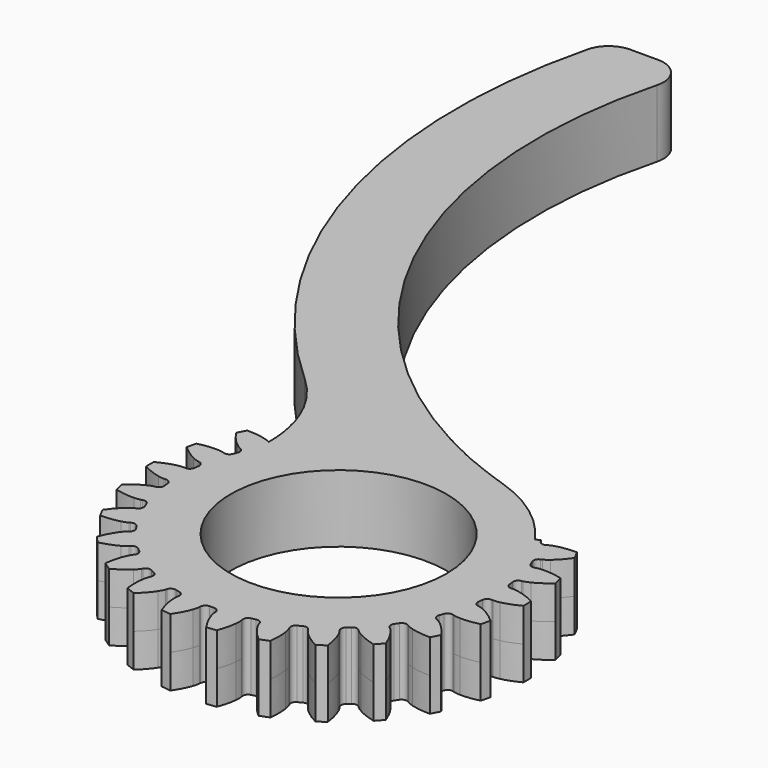
from build123d import *

# Parameters (mm, degrees)
SKETCH009_R     = 8
PAD008_DEPTH    = 2.5
FILLET_R        = 10
FILLET001_R     = 2
CHAMFER_SIZE    = 0.8
PAD009_DEPTH    = 2.5
SKETCH010_R     = 8
POCKET001_DEPTH = 5.001
POCKET002_DEPTH = 5


with BuildPart() as part:
    # Sketch009 → Pad008 (new body, symmetric)
    with BuildSketch(Plane.XY):
        with BuildLine():
            ThreePointArc((-35, 12), (-33.110427, -16.51362), (-11.470762, -35.177004))
            ThreePointArc((-21.943947, -36.979226), (-13.06944, -57.218988), (-11.470762, -35.177004))
            ThreePointArc((-41.291646, 12), (-39.992827, -15.797905), (-21.943947, -36.979226))
            Line((-41.291646, 12), (-35, 12))
        make_face()
        with Locations((-15, -46)):
            Circle(SKETCH009_R, mode=Mode.SUBTRACT)
    extrude(amount=PAD008_DEPTH, both=True)

    # Fillet
    fillet_edges = [part.edges().sort_by_distance(p)[0] for p in [
        (-21.943947, -36.979226, 0),
    ]]
    fillet(fillet_edges, radius=FILLET_R)

    # Fillet001
    fillet001_edges = [part.edges().sort_by_distance(p)[0] for p in [
        (-41.291646, 12, 0),
        (-35, 12, 0),
    ]]
    fillet(fillet001_edges, radius=FILLET001_R)

    # Chamfer
    chamfer_edges = [part.edges().sort_by_distance(p)[0] for p in [
        (-23, -46, 2.5),
        (-23, -46, -2.5),
    ]]
    chamfer(chamfer_edges, length=CHAMFER_SIZE)

    # InvoluteGear → Pad009 (join, symmetric)
    with BuildSketch(Plane(origin=(-15, -46, 0), x_dir=(1, 0, 0), z_dir=(0, 0, 1))):
        with BuildLine():
            Line((12.095609, -0.912763), (12.201012, -0.919963))
            add(Edge.make_bspline(
                [(12.201012, -0.919963), (12.252999, -0.920942), (12.409636, -0.91804), (12.670504, -0.863228)],
                knots=[0, 0, 0, 0, 1, 1, 1, 1], degree=3))
            add(Edge.make_bspline(
                [(12.670504, -0.863228), (12.983071, -0.796742), (13.434622, -0.656345), (13.996362, -0.361494)],
                knots=[0, 0, 0, 0, 1, 1, 1, 1], degree=3))
            ThreePointArc((13.996362, -0.361494), (14.000515, 0.000191), (13.995323, 0.361861))
            add(Edge.make_bspline(
                [(13.995323, 0.361861), (13.434622, 0.656345), (12.983071, 0.796742), (12.670504, 0.863228)],
                knots=[0, 0, 0, 0, 1, 1, 1, 1], degree=3))
            add(Edge.make_bspline(
                [(12.670504, 0.863228), (12.409636, 0.91804), (12.252999, 0.920942), (12.201012, 0.919963)],
                knots=[0, 0, 0, 0, 1, 1, 1, 1], degree=3))
            Line((12.201012, 0.919963), (12.095609, 0.912763))
            ThreePointArc((12.095609, 0.912763), (11.820254, 0.99725), (11.683256, 1.250608))
            ThreePointArc((11.683256, 1.250608), (11.664329, 1.416306), (11.643052, 1.581719))
            ThreePointArc((11.643052, 1.581719), (11.715437, 1.8605), (11.962571, 2.008429))
            Line((11.962571, 2.008429), (12.066634, 2.026663))
            add(Edge.make_bspline(
                [(12.066634, 2.026663), (12.117345, 2.038154), (12.268736, 2.078457), (12.508906, 2.194106)],
                knots=[0, 0, 0, 0, 1, 1, 1, 1], degree=3))
            add(Edge.make_bspline(
                [(12.508906, 2.194106), (12.79648, 2.333462), (13.20131, 2.577843), (13.676164, 2.998559)],
                knots=[0, 0, 0, 0, 1, 1, 1, 1], degree=3))
            ThreePointArc((13.676164, 2.998559), (13.59364, 3.350727), (13.502045, 3.700646))
            add(Edge.make_bspline(
                [(13.502045, 3.700646), (12.887162, 3.852388), (12.415134, 3.880643), (12.095739, 3.870394)],
                knots=[0, 0, 0, 0, 1, 1, 1, 1], degree=3))
            add(Edge.make_bspline(
                [(12.095739, 3.870394), (11.829334, 3.861183), (11.676553, 3.826516), (11.626311, 3.813123)],
                knots=[0, 0, 0, 0, 1, 1, 1, 1], degree=3))
            Line((11.626311, 3.813123), (11.525694, 3.780909))
            ThreePointArc((11.525694, 3.780909), (11.238122, 3.797044), (11.044472, 4.010253))
            ThreePointArc((11.044472, 4.010253), (10.986441, 4.166607), (10.926196, 4.322122))
            ThreePointArc((10.926196, 4.322122), (10.929761, 4.610125), (11.134312, 4.812898))
            Line((11.134312, 4.812898), (11.230987, 4.855506))
            add(Edge.make_bspline(
                [(11.230987, 4.855506), (11.277475, 4.878799), (11.414822, 4.954162), (11.620336, 5.123927)],
                knots=[0, 0, 0, 0, 1, 1, 1, 1], degree=3))
            add(Edge.make_bspline(
                [(11.620336, 5.123927), (11.866203, 5.328054), (12.200786, 5.662215), (12.561157, 6.184347)],
                knots=[0, 0, 0, 0, 1, 1, 1, 1], degree=3))
            ThreePointArc((12.561157, 6.184347), (12.396752, 6.506532), (12.224077, 6.824363))
            add(Edge.make_bspline(
                [(12.224077, 6.824363), (11.590748, 6.824545), (11.125674, 6.739014), (10.818013, 6.652627)],
                knots=[0, 0, 0, 0, 1, 1, 1, 1], degree=3))
            add(Edge.make_bspline(
                [(10.818013, 6.652627), (10.561553, 6.579929), (10.421509, 6.509706), (10.375931, 6.484679)],
                knots=[0, 0, 0, 0, 1, 1, 1, 1], degree=3))
            Line((10.375931, 6.484679), (10.285948, 6.429322))
            ThreePointArc((10.285948, 6.429322), (10.00287, 6.376167), (9.763823, 6.536838))
            ThreePointArc((9.763823, 6.536838), (9.67006, 6.674761), (9.574349, 6.811339))
            ThreePointArc((9.574349, 6.811339), (9.508887, 7.091826), (9.658968, 7.337659))
            Line((9.658968, 7.337659), (9.742636, 7.402165))
            add(Edge.make_bspline(
                [(9.742636, 7.402165), (9.782199, 7.435906), (9.897519, 7.541949), (10.056434, 7.755963)],
                knots=[0, 0, 0, 0, 1, 1, 1, 1], degree=3))
            add(Edge.make_bspline(
                [(10.056434, 7.755963), (10.246306, 8.012998), (10.491196, 8.417521), (10.716142, 9.010723)],
                knots=[0, 0, 0, 0, 1, 1, 1, 1], degree=3))
            ThreePointArc((10.716142, 9.010723), (10.479409, 9.284201), (10.235691, 9.551473))
            add(Edge.make_bspline(
                [(10.235691, 9.551473), (9.620722, 9.400084), (9.18963, 9.205739), (8.911583, 9.048234)],
                knots=[0, 0, 0, 0, 1, 1, 1, 1], degree=3))
            add(Edge.make_bspline(
                [(8.911583, 9.048234), (8.679973, 8.916274), (8.560804, 8.814576), (8.52254, 8.779369)],
                knots=[0, 0, 0, 0, 1, 1, 1, 1], degree=3))
            Line((8.52254, 8.779369), (8.448419, 8.704086))
            ThreePointArc((8.448419, 8.704086), (8.186288, 8.584731), (7.915737, 8.683525))
            ThreePointArc((7.915737, 8.683525), (7.791691, 8.795001), (7.666076, 8.904705))
            ThreePointArc((7.666076, 8.904705), (7.535391, 9.161376), (7.622279, 9.435982))
            Line((7.622279, 9.435982), (7.688079, 9.518637))
            add(Edge.make_bspline(
                [(7.688079, 9.518637), (7.718417, 9.560866), (7.805009, 9.691425), (7.908089, 9.937251)],
                knots=[0, 0, 0, 0, 1, 1, 1, 1], degree=3))
            add(Edge.make_bspline(
                [(7.908089, 9.937251), (8.030931, 10.232257), (8.171896, 10.68363), (8.248343, 11.313428)],
                knots=[0, 0, 0, 0, 1, 1, 1, 1], degree=3))
            ThreePointArc((8.248343, 11.313428), (7.953042, 11.522306), (7.652443, 11.723485))
            add(Edge.make_bspline(
                [(7.652443, 11.723485), (7.091574, 11.429324), (6.719519, 11.137459), (6.487244, 10.91799)],
                knots=[0, 0, 0, 0, 1, 1, 1, 1], degree=3))
            add(Edge.make_bspline(
                [(6.487244, 10.91799), (6.293945, 10.734436), (6.202576, 10.607175), (6.17385, 10.563834)],
                knots=[0, 0, 0, 0, 1, 1, 1, 1], degree=3))
            Line((6.17385, 10.563834), (6.1199, 10.473))
            ThreePointArc((6.1199, 10.473), (5.893949, 10.294381), (5.607616, 10.325558))
            ThreePointArc((5.607616, 10.325558), (5.460497, 10.404108), (5.312278, 10.480563))
            ThreePointArc((5.312278, 10.480563), (5.123965, 10.6985), (5.142611, 10.985921))
            Line((5.142611, 10.985921), (5.186718, 11.081921))
            add(Edge.make_bspline(
                [(5.186718, 11.081921), (5.206069, 11.130183), (5.2589, 11.27767), (5.300155, 11.541023)],
                knots=[0, 0, 0, 0, 1, 1, 1, 1], degree=3))
            add(Edge.make_bspline(
                [(5.300155, 11.541023), (5.348828, 11.856854), (5.377676, 12.328846), (5.301181, 12.958638)],
                knots=[0, 0, 0, 0, 1, 1, 1, 1], degree=3))
            ThreePointArc((5.301181, 12.958638), (4.964473, 13.090776), (4.624464, 13.214172))
            add(Edge.make_bspline(
                [(4.624464, 13.214172), (4.150289, 12.794333), (3.858893, 12.421911), (3.685891, 12.153232)],
                knots=[0, 0, 0, 0, 1, 1, 1, 1], degree=3))
            add(Edge.make_bspline(
                [(3.685891, 12.153232), (3.542136, 11.928753), (3.483878, 11.783324), (3.466358, 11.734367)],
                knots=[0, 0, 0, 0, 1, 1, 1, 1], degree=3))
            Line((3.466358, 11.734367), (3.435713, 11.633261))
            ThreePointArc((3.435713, 11.633261), (3.259075, 11.40576), (2.973601, 11.367506))
            ThreePointArc((2.973601, 11.367506), (2.811959, 11.408566), (2.64975, 11.447328))
            ThreePointArc((2.64975, 11.447328), (2.414753, 11.613866), (2.364073, 11.897397))
            Line((2.364073, 11.897397), (2.383924, 12.001163))
            add(Edge.make_bspline(
                [(2.383924, 12.001163), (2.391163, 12.052654), (2.407162, 12.208499), (2.384194, 12.474071)],
                knots=[0, 0, 0, 0, 1, 1, 1, 1], degree=3))
            add(Edge.make_bspline(
                [(2.384194, 12.474071), (2.35587, 12.792373), (2.270924, 13.257555), (2.045933, 13.850739)],
                knots=[0, 0, 0, 0, 1, 1, 1, 1], degree=3))
            ThreePointArc((2.045933, 13.850739), (1.687386, 13.898458), (1.327727, 13.936899))
            add(Edge.make_bspline(
                [(1.327727, 13.936899), (0.967805, 13.415782), (0.774003, 12.984447), (0.670327, 12.682173)],
                knots=[0, 0, 0, 0, 1, 1, 1, 1], degree=3))
            add(Edge.make_bspline(
                [(0.670327, 12.682173), (0.58447, 12.429814), (0.562709, 12.274668), (0.557414, 12.222942)],
                knots=[0, 0, 0, 0, 1, 1, 1, 1], degree=3))
            Line((0.557414, 12.222942), (0.551856, 12.11744))
            ThreePointArc((0.551856, 12.11744), (0.434795, 11.854277), (0.166772, 11.748816))
            ThreePointArc((0.166772, 11.748816), (0, 11.75), (-0.166772, 11.748816))
            ThreePointArc((-0.166772, 11.748816), (-0.434795, 11.854277), (-0.551856, 12.11744))
            Line((-0.551856, 12.11744), (-0.557414, 12.222942))
            add(Edge.make_bspline(
                [(-0.557414, 12.222942), (-0.562709, 12.274668), (-0.58447, 12.429814), (-0.670327, 12.682173)],
                knots=[0, 0, 0, 0, 1, 1, 1, 1], degree=3))
            add(Edge.make_bspline(
                [(-0.670327, 12.682173), (-0.774003, 12.984447), (-0.967805, 13.415782), (-1.328217, 13.937886)],
                knots=[0, 0, 0, 0, 1, 1, 1, 1], degree=3))
            ThreePointArc((-1.328217, 13.937886), (-1.687765, 13.898412), (-2.046173, 13.849663))
            add(Edge.make_bspline(
                [(-2.046173, 13.849663), (-2.270924, 13.257555), (-2.35587, 12.792373), (-2.384194, 12.474071)],
                knots=[0, 0, 0, 0, 1, 1, 1, 1], degree=3))
            add(Edge.make_bspline(
                [(-2.384194, 12.474071), (-2.407162, 12.208499), (-2.391163, 12.052654), (-2.383924, 12.001163)],
                knots=[0, 0, 0, 0, 1, 1, 1, 1], degree=3))
            Line((-2.383924, 12.001163), (-2.364073, 11.897397))
            ThreePointArc((-2.364073, 11.897397), (-2.414753, 11.613866), (-2.64975, 11.447328))
            ThreePointArc((-2.64975, 11.447328), (-2.811959, 11.408566), (-2.973601, 11.367506))
            ThreePointArc((-2.973601, 11.367506), (-3.259075, 11.40576), (-3.435713, 11.633261))
            Line((-3.435713, 11.633261), (-3.466358, 11.734367))
            add(Edge.make_bspline(
                [(-3.466358, 11.734367), (-3.483878, 11.783324), (-3.542136, 11.928753), (-3.685891, 12.153232)],
                knots=[0, 0, 0, 0, 1, 1, 1, 1], degree=3))
            add(Edge.make_bspline(
                [(-3.685891, 12.153232), (-3.858893, 12.421911), (-4.150289, 12.794333), (-4.625176, 13.215013)],
                knots=[0, 0, 0, 0, 1, 1, 1, 1], degree=3))
            ThreePointArc((-4.625176, 13.215013), (-4.964829, 13.090641), (-5.301156, 12.957536))
            add(Edge.make_bspline(
                [(-5.301156, 12.957536), (-5.377676, 12.328846), (-5.348828, 11.856854), (-5.300155, 11.541023)],
                knots=[0, 0, 0, 0, 1, 1, 1, 1], degree=3))
            add(Edge.make_bspline(
                [(-5.300155, 11.541023), (-5.2589, 11.27767), (-5.206069, 11.130183), (-5.186718, 11.081921)],
                knots=[0, 0, 0, 0, 1, 1, 1, 1], degree=3))
            Line((-5.186718, 11.081921), (-5.142611, 10.985921))
            ThreePointArc((-5.142611, 10.985921), (-5.123965, 10.6985), (-5.312278, 10.480563))
            ThreePointArc((-5.312278, 10.480563), (-5.460497, 10.404108), (-5.607616, 10.325558))
            ThreePointArc((-5.607616, 10.325558), (-5.893949, 10.294381), (-6.1199, 10.473))
            Line((-6.1199, 10.473), (-6.17385, 10.563834))
            add(Edge.make_bspline(
                [(-6.17385, 10.563834), (-6.202576, 10.607175), (-6.293945, 10.734436), (-6.487244, 10.91799)],
                knots=[0, 0, 0, 0, 1, 1, 1, 1], degree=3))
            add(Edge.make_bspline(
                [(-6.487244, 10.91799), (-6.719519, 11.137459), (-7.091574, 11.429324), (-7.653336, 11.724131)],
                knots=[0, 0, 0, 0, 1, 1, 1, 1], degree=3))
            ThreePointArc((-7.653336, 11.724131), (-7.953356, 11.522089), (-8.248055, 11.312364))
            add(Edge.make_bspline(
                [(-8.248055, 11.312364), (-8.171896, 10.68363), (-8.030931, 10.232257), (-7.908089, 9.937251)],
                knots=[0, 0, 0, 0, 1, 1, 1, 1], degree=3))
            add(Edge.make_bspline(
                [(-7.908089, 9.937251), (-7.805009, 9.691425), (-7.718417, 9.560866), (-7.688079, 9.518637)],
                knots=[0, 0, 0, 0, 1, 1, 1, 1], degree=3))
            Line((-7.688079, 9.518637), (-7.622279, 9.435982))
            ThreePointArc((-7.622279, 9.435982), (-7.535391, 9.161376), (-7.666076, 8.904705))
            ThreePointArc((-7.666076, 8.904705), (-7.791691, 8.795001), (-7.915737, 8.683525))
            ThreePointArc((-7.915737, 8.683525), (-8.186288, 8.584731), (-8.448419, 8.704086))
            Line((-8.448419, 8.704086), (-8.52254, 8.779369))
            add(Edge.make_bspline(
                [(-8.52254, 8.779369), (-8.560804, 8.814576), (-8.679973, 8.916274), (-8.911583, 9.048234)],
                knots=[0, 0, 0, 0, 1, 1, 1, 1], degree=3))
            add(Edge.make_bspline(
                [(-8.911583, 9.048234), (-9.18963, 9.205739), (-9.620722, 9.400084), (-10.236712, 9.551886)],
                knots=[0, 0, 0, 0, 1, 1, 1, 1], degree=3))
            ThreePointArc((-10.236712, 9.551886), (-10.479662, 9.283916), (-10.715608, 9.009759))
            add(Edge.make_bspline(
                [(-10.715608, 9.009759), (-10.491196, 8.417521), (-10.246306, 8.012998), (-10.056434, 7.755963)],
                knots=[0, 0, 0, 0, 1, 1, 1, 1], degree=3))
            add(Edge.make_bspline(
                [(-10.056434, 7.755963), (-9.897519, 7.541949), (-9.782199, 7.435906), (-9.742636, 7.402165)],
                knots=[0, 0, 0, 0, 1, 1, 1, 1], degree=3))
            Line((-9.742636, 7.402165), (-9.658968, 7.337659))
            ThreePointArc((-9.658968, 7.337659), (-9.508887, 7.091826), (-9.574349, 6.811339))
            ThreePointArc((-9.574349, 6.811339), (-9.67006, 6.674761), (-9.763823, 6.536838))
            ThreePointArc((-9.763823, 6.536838), (-10.00287, 6.376167), (-10.285948, 6.429322))
            Line((-10.285948, 6.429322), (-10.375931, 6.484679))
            add(Edge.make_bspline(
                [(-10.375931, 6.484679), (-10.421509, 6.509706), (-10.561553, 6.579929), (-10.818013, 6.652627)],
                knots=[0, 0, 0, 0, 1, 1, 1, 1], degree=3))
            add(Edge.make_bspline(
                [(-10.818013, 6.652627), (-11.125674, 6.739014), (-11.590748, 6.824545), (-12.225168, 6.82452)],
                knots=[0, 0, 0, 0, 1, 1, 1, 1], degree=3))
            ThreePointArc((-12.225168, 6.82452), (-12.396929, 6.506195), (-12.560408, 6.183539))
            add(Edge.make_bspline(
                [(-12.560408, 6.183539), (-12.200786, 5.662215), (-11.866203, 5.328054), (-11.620336, 5.123927)],
                knots=[0, 0, 0, 0, 1, 1, 1, 1], degree=3))
            add(Edge.make_bspline(
                [(-11.620336, 5.123927), (-11.414822, 4.954162), (-11.277475, 4.878799), (-11.230987, 4.855506)],
                knots=[0, 0, 0, 0, 1, 1, 1, 1], degree=3))
            Line((-11.230987, 4.855506), (-11.134312, 4.812898))
            ThreePointArc((-11.134312, 4.812898), (-10.929761, 4.610125), (-10.926196, 4.322122))
            ThreePointArc((-10.926196, 4.322122), (-10.986441, 4.166607), (-11.044472, 4.010253))
            ThreePointArc((-11.044472, 4.010253), (-11.238122, 3.797044), (-11.525694, 3.780909))
            Line((-11.525694, 3.780909), (-11.626311, 3.813123))
            add(Edge.make_bspline(
                [(-11.626311, 3.813123), (-11.676553, 3.826516), (-11.829334, 3.861183), (-12.095739, 3.870394)],
                knots=[0, 0, 0, 0, 1, 1, 1, 1], degree=3))
            add(Edge.make_bspline(
                [(-12.095739, 3.870394), (-12.415134, 3.880643), (-12.887162, 3.852388), (-13.503142, 3.700538)],
                knots=[0, 0, 0, 0, 1, 1, 1, 1], degree=3))
            ThreePointArc((-13.503142, 3.700538), (-13.593731, 3.350357), (-13.675243, 2.997954))
            add(Edge.make_bspline(
                [(-13.675243, 2.997954), (-13.20131, 2.577843), (-12.79648, 2.333462), (-12.508906, 2.194106)],
                knots=[0, 0, 0, 0, 1, 1, 1, 1], degree=3))
            add(Edge.make_bspline(
                [(-12.508906, 2.194106), (-12.268736, 2.078457), (-12.117345, 2.038154), (-12.066634, 2.026663)],
                knots=[0, 0, 0, 0, 1, 1, 1, 1], degree=3))
            Line((-12.066634, 2.026663), (-11.962571, 2.008429))
            ThreePointArc((-11.962571, 2.008429), (-11.715437, 1.8605), (-11.643052, 1.581719))
            ThreePointArc((-11.643052, 1.581719), (-11.664329, 1.416306), (-11.683256, 1.250608))
            ThreePointArc((-11.683256, 1.250608), (-11.820254, 0.99725), (-12.095609, 0.912763))
            Line((-12.095609, 0.912763), (-12.201012, 0.919963))
            add(Edge.make_bspline(
                [(-12.201012, 0.919963), (-12.252999, 0.920942), (-12.409636, 0.91804), (-12.670504, 0.863228)],
                knots=[0, 0, 0, 0, 1, 1, 1, 1], degree=3))
            add(Edge.make_bspline(
                [(-12.670504, 0.863228), (-12.983071, 0.796742), (-13.434622, 0.656345), (-13.996362, 0.361494)],
                knots=[0, 0, 0, 0, 1, 1, 1, 1], degree=3))
            ThreePointArc((-13.996362, 0.361494), (-14.000515, -0.000191), (-13.995323, -0.361861))
            add(Edge.make_bspline(
                [(-13.995323, -0.361861), (-13.434622, -0.656345), (-12.983071, -0.796742), (-12.670504, -0.863228)],
                knots=[0, 0, 0, 0, 1, 1, 1, 1], degree=3))
            add(Edge.make_bspline(
                [(-12.670504, -0.863228), (-12.409636, -0.91804), (-12.252999, -0.920942), (-12.201012, -0.919963)],
                knots=[0, 0, 0, 0, 1, 1, 1, 1], degree=3))
            Line((-12.201012, -0.919963), (-12.095609, -0.912763))
            ThreePointArc((-12.095609, -0.912763), (-11.820254, -0.99725), (-11.683256, -1.250608))
            ThreePointArc((-11.683256, -1.250608), (-11.664329, -1.416306), (-11.643052, -1.581719))
            ThreePointArc((-11.643052, -1.581719), (-11.715437, -1.8605), (-11.962571, -2.008429))
            Line((-11.962571, -2.008429), (-12.066634, -2.026663))
            add(Edge.make_bspline(
                [(-12.066634, -2.026663), (-12.117345, -2.038154), (-12.268736, -2.078457), (-12.508906, -2.194106)],
                knots=[0, 0, 0, 0, 1, 1, 1, 1], degree=3))
            add(Edge.make_bspline(
                [(-12.508906, -2.194106), (-12.79648, -2.333462), (-13.20131, -2.577843), (-13.676164, -2.998559)],
                knots=[0, 0, 0, 0, 1, 1, 1, 1], degree=3))
            ThreePointArc((-13.676164, -2.998559), (-13.59364, -3.350727), (-13.502045, -3.700646))
            add(Edge.make_bspline(
                [(-13.502045, -3.700646), (-12.887162, -3.852388), (-12.415134, -3.880643), (-12.095739, -3.870394)],
                knots=[0, 0, 0, 0, 1, 1, 1, 1], degree=3))
            add(Edge.make_bspline(
                [(-12.095739, -3.870394), (-11.829334, -3.861183), (-11.676553, -3.826516), (-11.626311, -3.813123)],
                knots=[0, 0, 0, 0, 1, 1, 1, 1], degree=3))
            Line((-11.626311, -3.813123), (-11.525694, -3.780909))
            ThreePointArc((-11.525694, -3.780909), (-11.238122, -3.797044), (-11.044472, -4.010253))
            ThreePointArc((-11.044472, -4.010253), (-10.986441, -4.166607), (-10.926196, -4.322122))
            ThreePointArc((-10.926196, -4.322122), (-10.929761, -4.610125), (-11.134312, -4.812898))
            Line((-11.134312, -4.812898), (-11.230987, -4.855506))
            add(Edge.make_bspline(
                [(-11.230987, -4.855506), (-11.277475, -4.878799), (-11.414822, -4.954162), (-11.620336, -5.123927)],
                knots=[0, 0, 0, 0, 1, 1, 1, 1], degree=3))
            add(Edge.make_bspline(
                [(-11.620336, -5.123927), (-11.866203, -5.328054), (-12.200786, -5.662215), (-12.561157, -6.184347)],
                knots=[0, 0, 0, 0, 1, 1, 1, 1], degree=3))
            ThreePointArc((-12.561157, -6.184347), (-12.396752, -6.506532), (-12.224077, -6.824363))
            add(Edge.make_bspline(
                [(-12.224077, -6.824363), (-11.590748, -6.824545), (-11.125674, -6.739014), (-10.818013, -6.652627)],
                knots=[0, 0, 0, 0, 1, 1, 1, 1], degree=3))
            add(Edge.make_bspline(
                [(-10.818013, -6.652627), (-10.561553, -6.579929), (-10.421509, -6.509706), (-10.375931, -6.484679)],
                knots=[0, 0, 0, 0, 1, 1, 1, 1], degree=3))
            Line((-10.375931, -6.484679), (-10.285948, -6.429322))
            ThreePointArc((-10.285948, -6.429322), (-10.00287, -6.376167), (-9.763823, -6.536838))
            ThreePointArc((-9.763823, -6.536838), (-9.67006, -6.674761), (-9.574349, -6.811339))
            ThreePointArc((-9.574349, -6.811339), (-9.508887, -7.091826), (-9.658968, -7.337659))
            Line((-9.658968, -7.337659), (-9.742636, -7.402165))
            add(Edge.make_bspline(
                [(-9.742636, -7.402165), (-9.782199, -7.435906), (-9.897519, -7.541949), (-10.056434, -7.755963)],
                knots=[0, 0, 0, 0, 1, 1, 1, 1], degree=3))
            add(Edge.make_bspline(
                [(-10.056434, -7.755963), (-10.246306, -8.012998), (-10.491196, -8.417521), (-10.716142, -9.010723)],
                knots=[0, 0, 0, 0, 1, 1, 1, 1], degree=3))
            ThreePointArc((-10.716142, -9.010723), (-10.479409, -9.284201), (-10.235691, -9.551473))
            add(Edge.make_bspline(
                [(-10.235691, -9.551473), (-9.620722, -9.400084), (-9.18963, -9.205739), (-8.911583, -9.048234)],
                knots=[0, 0, 0, 0, 1, 1, 1, 1], degree=3))
            add(Edge.make_bspline(
                [(-8.911583, -9.048234), (-8.679973, -8.916274), (-8.560804, -8.814576), (-8.52254, -8.779369)],
                knots=[0, 0, 0, 0, 1, 1, 1, 1], degree=3))
            Line((-8.52254, -8.779369), (-8.448419, -8.704086))
            ThreePointArc((-8.448419, -8.704086), (-8.186288, -8.584731), (-7.915737, -8.683525))
            ThreePointArc((-7.915737, -8.683525), (-7.791691, -8.795001), (-7.666076, -8.904705))
            ThreePointArc((-7.666076, -8.904705), (-7.535391, -9.161376), (-7.622279, -9.435982))
            Line((-7.622279, -9.435982), (-7.688079, -9.518637))
            add(Edge.make_bspline(
                [(-7.688079, -9.518637), (-7.718417, -9.560866), (-7.805009, -9.691425), (-7.908089, -9.937251)],
                knots=[0, 0, 0, 0, 1, 1, 1, 1], degree=3))
            add(Edge.make_bspline(
                [(-7.908089, -9.937251), (-8.030931, -10.232257), (-8.171896, -10.68363), (-8.248343, -11.313428)],
                knots=[0, 0, 0, 0, 1, 1, 1, 1], degree=3))
            ThreePointArc((-8.248343, -11.313428), (-7.953042, -11.522306), (-7.652443, -11.723485))
            add(Edge.make_bspline(
                [(-7.652443, -11.723485), (-7.091574, -11.429324), (-6.719519, -11.137459), (-6.487244, -10.91799)],
                knots=[0, 0, 0, 0, 1, 1, 1, 1], degree=3))
            add(Edge.make_bspline(
                [(-6.487244, -10.91799), (-6.293945, -10.734436), (-6.202576, -10.607175), (-6.17385, -10.563834)],
                knots=[0, 0, 0, 0, 1, 1, 1, 1], degree=3))
            Line((-6.17385, -10.563834), (-6.1199, -10.473))
            ThreePointArc((-6.1199, -10.473), (-5.893949, -10.294381), (-5.607616, -10.325558))
            ThreePointArc((-5.607616, -10.325558), (-5.460497, -10.404108), (-5.312278, -10.480563))
            ThreePointArc((-5.312278, -10.480563), (-5.123965, -10.6985), (-5.142611, -10.985921))
            Line((-5.142611, -10.985921), (-5.186718, -11.081921))
            add(Edge.make_bspline(
                [(-5.186718, -11.081921), (-5.206069, -11.130183), (-5.2589, -11.27767), (-5.300155, -11.541023)],
                knots=[0, 0, 0, 0, 1, 1, 1, 1], degree=3))
            add(Edge.make_bspline(
                [(-5.300155, -11.541023), (-5.348828, -11.856854), (-5.377676, -12.328846), (-5.301181, -12.958638)],
                knots=[0, 0, 0, 0, 1, 1, 1, 1], degree=3))
            ThreePointArc((-5.301181, -12.958638), (-4.964473, -13.090776), (-4.624464, -13.214172))
            add(Edge.make_bspline(
                [(-4.624464, -13.214172), (-4.150289, -12.794333), (-3.858893, -12.421911), (-3.685891, -12.153232)],
                knots=[0, 0, 0, 0, 1, 1, 1, 1], degree=3))
            add(Edge.make_bspline(
                [(-3.685891, -12.153232), (-3.542136, -11.928753), (-3.483878, -11.783324), (-3.466358, -11.734367)],
                knots=[0, 0, 0, 0, 1, 1, 1, 1], degree=3))
            Line((-3.466358, -11.734367), (-3.435713, -11.633261))
            ThreePointArc((-3.435713, -11.633261), (-3.259075, -11.40576), (-2.973601, -11.367506))
            ThreePointArc((-2.973601, -11.367506), (-2.811959, -11.408566), (-2.64975, -11.447328))
            ThreePointArc((-2.64975, -11.447328), (-2.414753, -11.613866), (-2.364073, -11.897397))
            Line((-2.364073, -11.897397), (-2.383924, -12.001163))
            add(Edge.make_bspline(
                [(-2.383924, -12.001163), (-2.391163, -12.052654), (-2.407162, -12.208499), (-2.384194, -12.474071)],
                knots=[0, 0, 0, 0, 1, 1, 1, 1], degree=3))
            add(Edge.make_bspline(
                [(-2.384194, -12.474071), (-2.35587, -12.792373), (-2.270924, -13.257555), (-2.045933, -13.850739)],
                knots=[0, 0, 0, 0, 1, 1, 1, 1], degree=3))
            ThreePointArc((-2.045933, -13.850739), (-1.687386, -13.898458), (-1.327727, -13.936899))
            add(Edge.make_bspline(
                [(-1.327727, -13.936899), (-0.967805, -13.415782), (-0.774003, -12.984447), (-0.670327, -12.682173)],
                knots=[0, 0, 0, 0, 1, 1, 1, 1], degree=3))
            add(Edge.make_bspline(
                [(-0.670327, -12.682173), (-0.58447, -12.429814), (-0.562709, -12.274668), (-0.557414, -12.222942)],
                knots=[0, 0, 0, 0, 1, 1, 1, 1], degree=3))
            Line((-0.557414, -12.222942), (-0.551856, -12.11744))
            ThreePointArc((-0.551856, -12.11744), (-0.434795, -11.854277), (-0.166772, -11.748816))
            ThreePointArc((-0.166772, -11.748816), (0, -11.75), (0.166772, -11.748816))
            ThreePointArc((0.166772, -11.748816), (0.434795, -11.854277), (0.551856, -12.11744))
            Line((0.551856, -12.11744), (0.557414, -12.222942))
            add(Edge.make_bspline(
                [(0.557414, -12.222942), (0.562709, -12.274668), (0.58447, -12.429814), (0.670327, -12.682173)],
                knots=[0, 0, 0, 0, 1, 1, 1, 1], degree=3))
            add(Edge.make_bspline(
                [(0.670327, -12.682173), (0.774003, -12.984447), (0.967805, -13.415782), (1.328217, -13.937886)],
                knots=[0, 0, 0, 0, 1, 1, 1, 1], degree=3))
            ThreePointArc((1.328217, -13.937886), (1.687765, -13.898412), (2.046173, -13.849663))
            add(Edge.make_bspline(
                [(2.046173, -13.849663), (2.270924, -13.257555), (2.35587, -12.792373), (2.384194, -12.474071)],
                knots=[0, 0, 0, 0, 1, 1, 1, 1], degree=3))
            add(Edge.make_bspline(
                [(2.384194, -12.474071), (2.407162, -12.208499), (2.391163, -12.052654), (2.383924, -12.001163)],
                knots=[0, 0, 0, 0, 1, 1, 1, 1], degree=3))
            Line((2.383924, -12.001163), (2.364073, -11.897397))
            ThreePointArc((2.364073, -11.897397), (2.414753, -11.613866), (2.64975, -11.447328))
            ThreePointArc((2.64975, -11.447328), (2.811959, -11.408566), (2.973601, -11.367506))
            ThreePointArc((2.973601, -11.367506), (3.259075, -11.40576), (3.435713, -11.633261))
            Line((3.435713, -11.633261), (3.466358, -11.734367))
            add(Edge.make_bspline(
                [(3.466358, -11.734367), (3.483878, -11.783324), (3.542136, -11.928753), (3.685891, -12.153232)],
                knots=[0, 0, 0, 0, 1, 1, 1, 1], degree=3))
            add(Edge.make_bspline(
                [(3.685891, -12.153232), (3.858893, -12.421911), (4.150289, -12.794333), (4.625176, -13.215013)],
                knots=[0, 0, 0, 0, 1, 1, 1, 1], degree=3))
            ThreePointArc((4.625176, -13.215013), (4.964829, -13.090641), (5.301156, -12.957536))
            add(Edge.make_bspline(
                [(5.301156, -12.957536), (5.377676, -12.328846), (5.348828, -11.856854), (5.300155, -11.541023)],
                knots=[0, 0, 0, 0, 1, 1, 1, 1], degree=3))
            add(Edge.make_bspline(
                [(5.300155, -11.541023), (5.2589, -11.27767), (5.206069, -11.130183), (5.186718, -11.081921)],
                knots=[0, 0, 0, 0, 1, 1, 1, 1], degree=3))
            Line((5.186718, -11.081921), (5.142611, -10.985921))
            ThreePointArc((5.142611, -10.985921), (5.123965, -10.6985), (5.312278, -10.480563))
            ThreePointArc((5.312278, -10.480563), (5.460497, -10.404108), (5.607616, -10.325558))
            ThreePointArc((5.607616, -10.325558), (5.893949, -10.294381), (6.1199, -10.473))
            Line((6.1199, -10.473), (6.17385, -10.563834))
            add(Edge.make_bspline(
                [(6.17385, -10.563834), (6.202576, -10.607175), (6.293945, -10.734436), (6.487244, -10.91799)],
                knots=[0, 0, 0, 0, 1, 1, 1, 1], degree=3))
            add(Edge.make_bspline(
                [(6.487244, -10.91799), (6.719519, -11.137459), (7.091574, -11.429324), (7.653336, -11.724131)],
                knots=[0, 0, 0, 0, 1, 1, 1, 1], degree=3))
            ThreePointArc((7.653336, -11.724131), (7.953356, -11.522089), (8.248055, -11.312364))
            add(Edge.make_bspline(
                [(8.248055, -11.312364), (8.171896, -10.68363), (8.030931, -10.232257), (7.908089, -9.937251)],
                knots=[0, 0, 0, 0, 1, 1, 1, 1], degree=3))
            add(Edge.make_bspline(
                [(7.908089, -9.937251), (7.805009, -9.691425), (7.718417, -9.560866), (7.688079, -9.518637)],
                knots=[0, 0, 0, 0, 1, 1, 1, 1], degree=3))
            Line((7.688079, -9.518637), (7.622279, -9.435982))
            ThreePointArc((7.622279, -9.435982), (7.535391, -9.161376), (7.666076, -8.904705))
            ThreePointArc((7.666076, -8.904705), (7.791691, -8.795001), (7.915737, -8.683525))
            ThreePointArc((7.915737, -8.683525), (8.186288, -8.584731), (8.448419, -8.704086))
            Line((8.448419, -8.704086), (8.52254, -8.779369))
            add(Edge.make_bspline(
                [(8.52254, -8.779369), (8.560804, -8.814576), (8.679973, -8.916274), (8.911583, -9.048234)],
                knots=[0, 0, 0, 0, 1, 1, 1, 1], degree=3))
            add(Edge.make_bspline(
                [(8.911583, -9.048234), (9.18963, -9.205739), (9.620722, -9.400084), (10.236712, -9.551886)],
                knots=[0, 0, 0, 0, 1, 1, 1, 1], degree=3))
            ThreePointArc((10.236712, -9.551886), (10.479662, -9.283916), (10.715608, -9.009759))
            add(Edge.make_bspline(
                [(10.715608, -9.009759), (10.491196, -8.417521), (10.246306, -8.012998), (10.056434, -7.755963)],
                knots=[0, 0, 0, 0, 1, 1, 1, 1], degree=3))
            add(Edge.make_bspline(
                [(10.056434, -7.755963), (9.897519, -7.541949), (9.782199, -7.435906), (9.742636, -7.402165)],
                knots=[0, 0, 0, 0, 1, 1, 1, 1], degree=3))
            Line((9.742636, -7.402165), (9.658968, -7.337659))
            ThreePointArc((9.658968, -7.337659), (9.508887, -7.091826), (9.574349, -6.811339))
            ThreePointArc((9.574349, -6.811339), (9.67006, -6.674761), (9.763823, -6.536838))
            ThreePointArc((9.763823, -6.536838), (10.00287, -6.376167), (10.285948, -6.429322))
            Line((10.285948, -6.429322), (10.375931, -6.484679))
            add(Edge.make_bspline(
                [(10.375931, -6.484679), (10.421509, -6.509706), (10.561553, -6.579929), (10.818013, -6.652627)],
                knots=[0, 0, 0, 0, 1, 1, 1, 1], degree=3))
            add(Edge.make_bspline(
                [(10.818013, -6.652627), (11.125674, -6.739014), (11.590748, -6.824545), (12.225168, -6.82452)],
                knots=[0, 0, 0, 0, 1, 1, 1, 1], degree=3))
            ThreePointArc((12.225168, -6.82452), (12.396929, -6.506195), (12.560408, -6.183539))
            add(Edge.make_bspline(
                [(12.560408, -6.183539), (12.200786, -5.662215), (11.866203, -5.328054), (11.620336, -5.123927)],
                knots=[0, 0, 0, 0, 1, 1, 1, 1], degree=3))
            add(Edge.make_bspline(
                [(11.620336, -5.123927), (11.414822, -4.954162), (11.277475, -4.878799), (11.230987, -4.855506)],
                knots=[0, 0, 0, 0, 1, 1, 1, 1], degree=3))
            Line((11.230987, -4.855506), (11.134312, -4.812898))
            ThreePointArc((11.134312, -4.812898), (10.929761, -4.610125), (10.926196, -4.322122))
            ThreePointArc((10.926196, -4.322122), (10.986441, -4.166607), (11.044472, -4.010253))
            ThreePointArc((11.044472, -4.010253), (11.238122, -3.797044), (11.525694, -3.780909))
            Line((11.525694, -3.780909), (11.626311, -3.813123))
            add(Edge.make_bspline(
                [(11.626311, -3.813123), (11.676553, -3.826516), (11.829334, -3.861183), (12.095739, -3.870394)],
                knots=[0, 0, 0, 0, 1, 1, 1, 1], degree=3))
            add(Edge.make_bspline(
                [(12.095739, -3.870394), (12.415134, -3.880643), (12.887162, -3.852388), (13.503142, -3.700538)],
                knots=[0, 0, 0, 0, 1, 1, 1, 1], degree=3))
            ThreePointArc((13.503142, -3.700538), (13.593731, -3.350357), (13.675243, -2.997954))
            add(Edge.make_bspline(
                [(13.675243, -2.997954), (13.20131, -2.577843), (12.79648, -2.333462), (12.508906, -2.194106)],
                knots=[0, 0, 0, 0, 1, 1, 1, 1], degree=3))
            add(Edge.make_bspline(
                [(12.508906, -2.194106), (12.268736, -2.078457), (12.117345, -2.038154), (12.066634, -2.026663)],
                knots=[0, 0, 0, 0, 1, 1, 1, 1], degree=3))
            Line((12.066634, -2.026663), (11.962571, -2.008429))
            ThreePointArc((11.962571, -2.008429), (11.715437, -1.8605), (11.643052, -1.581719))
            ThreePointArc((11.643052, -1.581719), (11.664329, -1.416306), (11.683256, -1.250608))
            ThreePointArc((11.683256, -1.250608), (11.820254, -0.99725), (12.095609, -0.912763))
        make_face()
    extrude(amount=PAD009_DEPTH, both=True)

    # Sketch010 (on Face244 of Pad009) → Pocket001 (cut, through all)
    with BuildSketch(Plane.XY.offset(2.5)):
        with Locations((-15, -46)):
            Circle(SKETCH010_R)
    extrude(amount=-POCKET001_DEPTH, mode=Mode.SUBTRACT)

    # Sketch011 (on Face249 of Pocket001) → Pocket002 (cut)
    with BuildSketch(Plane.XY.offset(2.5)):
        with BuildLine():
            ThreePointArc((-5.661667, -39.461229), (-8.214185, -36.839612), (-11.465765, -35.16168))
            ThreePointArc((-19.210682, -31.60312), (-15.44108, -33.606258), (-11.465765, -35.16168))
            ThreePointArc((-2.712719, -37.396353), (-10.030267, -31.8472), (-19.210682, -31.60312))
            Line((-5.661667, -39.461229), (-2.712719, -37.396353))
        make_face()
    extrude(amount=-POCKET002_DEPTH, mode=Mode.SUBTRACT)


solid = part.part
